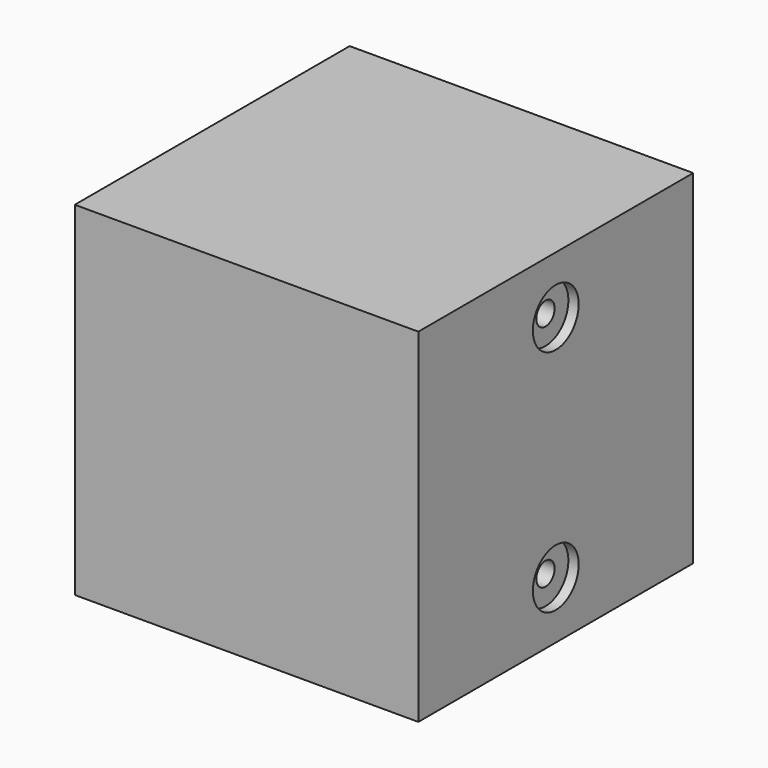
from build123d import *

# Parameters (mm, degrees)
F0_W            = 30
F0_H            = 30
F1_DEPTH        = 30
F2_T            = -2.5
F6_DEPTH        = 10.5
F9_DEPTH        = 10.5
F11_DEPTH       = 4.5
F12_DEPTH       = 4.5
F14_D           = 2
F14_DEPTH       = 15
F14_CBORE_D     = 5
F14_CBORE_DEPTH = 0.9
F14_TIP         = 0.600860619
F15_R           = 4
F15_R_2         = 1.5
F16_DEPTH       = 10.5


with BuildPart() as f1:
    # F0 (on Top) → F1 (new body)
    with BuildSketch(Plane.XY):
        Rectangle(F0_W, F0_H)
    extrude(amount=F1_DEPTH)

    # F2 (hollow: no face is removed)
    offset(amount=F2_T, mode=Mode.SUBTRACT)

    # F3 (on Top) → F6 (join, through all)
    with BuildSketch(Plane.XY):
        with BuildLine():
            ThreePointArc((3.75, 6.4951905284), (6.4951905284, 3.75), (7.5, 0))
            ThreePointArc((7.5, 0), (6.4951905284, -3.75), (3.75, -6.4951905284))
            Line((3.75, -6.4951905284), (3.75, -12.5))
            Line((3.75, -12.5), (12.5, -12.5))
            Line((12.5, -12.5), (12.5, 12.5))
            Line((12.5, 12.5), (3.75, 12.5))
            Line((3.75, 12.5), (3.75, 6.4951905284))
        make_face()
        with BuildLine():
            Line((-3.75, 6.4951905284), (-3.75, 12.5))
            Line((-3.75, 12.5), (-12.5, 12.5))
            Line((-12.5, 12.5), (-12.5, -12.5))
            Line((-12.5, -12.5), (-3.75, -12.5))
            Line((-3.75, -12.5), (-3.75, -6.4951905284))
            ThreePointArc((-3.75, -6.4951905284), (-6.4951905284, -3.75), (-7.5, 0))
            ThreePointArc((-7.5, 0), (-6.4951905284, 3.75), (-3.75, 6.4951905284))
        make_face()
    extrude(amount=F6_DEPTH)

    # F7 (on face) → F9 (join, through all)
    with BuildSketch(Plane.XY.offset(30)):
        with BuildLine():
            ThreePointArc((3.75, 6.4951905284), (6.4951905284, 3.75), (7.5, 0))
            ThreePointArc((7.5, 0), (6.4951905284, -3.75), (3.75, -6.4951905284))
            Line((3.75, -6.4951905284), (3.75, -12.5))
            Line((3.75, -12.5), (12.5, -12.5))
            Line((12.5, -12.5), (12.5, 12.5))
            Line((12.5, 12.5), (3.75, 12.5))
            Line((3.75, 12.5), (3.75, 6.4951905284))
        make_face()
        with BuildLine():
            Line((-3.75, 6.4951905284), (-3.75, 12.5))
            Line((-3.75, 12.5), (-12.5, 12.5))
            Line((-12.5, 12.5), (-12.5, -12.5))
            Line((-12.5, -12.5), (-3.75, -12.5))
            Line((-3.75, -12.5), (-3.75, -6.4951905284))
            ThreePointArc((-3.75, -6.4951905284), (-6.4951905284, -3.75), (-7.5, 0))
            ThreePointArc((-7.5, 0), (-6.4951905284, 3.75), (-3.75, 6.4951905284))
        make_face()
    extrude(amount=-F9_DEPTH)

    # F10 (on mid) → F11 (join, through all)
    with BuildSketch(Plane.XY.offset(15)):
        with BuildLine():
            Line((3.75, -10.6066017178), (3.75, -12.5))
            Line((3.75, -12.5), (12.5, -12.5))
            Line((12.5, -12.5), (12.5, 12.5))
            Line((12.5, 12.5), (3.75, 12.5))
            Line((3.75, 12.5), (3.75, 10.6066017178))
            ThreePointArc((3.75, 10.6066017178), (11.25, 0), (3.75, -10.6066017178))
        make_face()
        with BuildLine():
            Line((-3.75, 10.6066017178), (-3.75, 12.5))
            Line((-3.75, 12.5), (-12.5, 12.5))
            Line((-12.5, 12.5), (-12.5, -12.5))
            Line((-12.5, -12.5), (-3.75, -12.5))
            Line((-3.75, -12.5), (-3.75, -10.6066017178))
            ThreePointArc((-3.75, -10.6066017178), (-11.25, 0), (-3.75, 10.6066017178))
        make_face()
    extrude(amount=-F11_DEPTH)

    # F10 (on mid) → F12 (join, through all)
    with BuildSketch(Plane.XY.offset(15)):
        with BuildLine():
            Line((3.75, -10.6066017178), (3.75, -12.5))
            Line((3.75, -12.5), (12.5, -12.5))
            Line((12.5, -12.5), (12.5, 12.5))
            Line((12.5, 12.5), (3.75, 12.5))
            Line((3.75, 12.5), (3.75, 10.6066017178))
            ThreePointArc((3.75, 10.6066017178), (11.25, 0), (3.75, -10.6066017178))
        make_face()
        with BuildLine():
            Line((-3.75, 10.6066017178), (-3.75, 12.5))
            Line((-3.75, 12.5), (-12.5, 12.5))
            Line((-12.5, 12.5), (-12.5, -12.5))
            Line((-12.5, -12.5), (-3.75, -12.5))
            Line((-3.75, -12.5), (-3.75, -10.6066017178))
            ThreePointArc((-3.75, -10.6066017178), (-11.25, 0), (-3.75, 10.6066017178))
        make_face()
    extrude(amount=F12_DEPTH)

    # F14
    with Locations(Plane.YZ.offset(15)):
        with Locations((0, 5), (0, 25)):
            CounterBoreHole(F14_D / 2, F14_CBORE_D / 2, F14_CBORE_DEPTH, depth=F14_DEPTH)
            with Locations((0, 0, -(F14_DEPTH + F14_TIP / 2))):  # 118° drill point
                Cone(0, F14_D / 2, F14_TIP, mode=Mode.SUBTRACT)

    # F15 (on Top) → F16 (join, through all)
    with BuildSketch(Plane.XY):
        Circle(F15_R)
        Circle(F15_R_2, mode=Mode.SUBTRACT)
    extrude(amount=F16_DEPTH)


solid = f1.part
